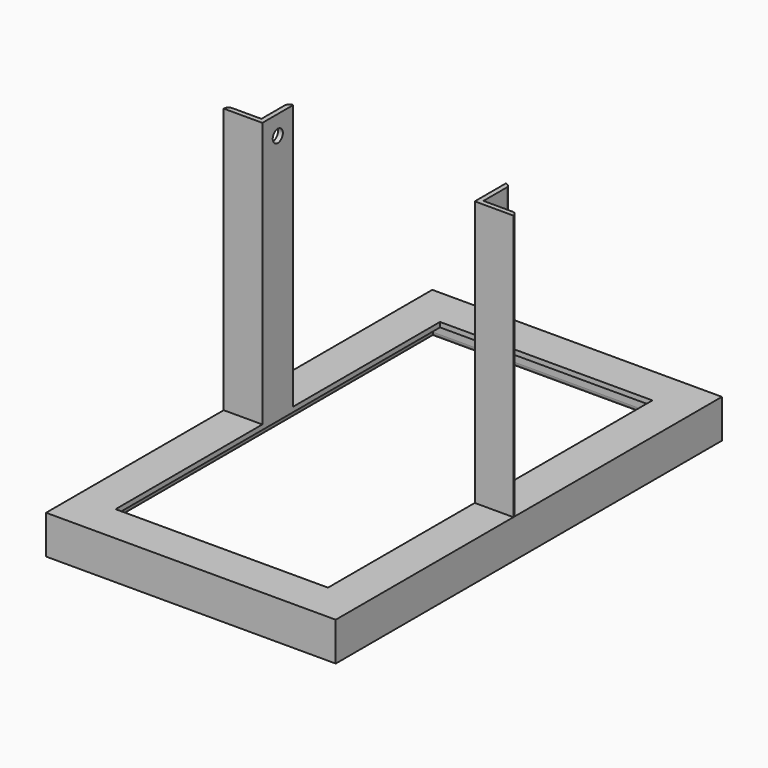
from build123d import *

# Parameters (mm, degrees)
PAD_DEPTH       = 400
PAD001_DEPTH    = 240
SKETCH002_W     = 176
SKETCH002_H     = 336
POCKET_DEPTH    = 32.001
PAD002_DEPTH    = 220
SKETCH004_R     = 5.25
POCKET001_DEPTH = 212.001


with BuildPart() as part:
    # Sketch → Pad (new body)
    with BuildSketch(Plane.XZ):
        with BuildLine():
            Line((-120, 0), (-120, 32))
            Line((-120, 32), (120, 32))
            Line((120, 32), (120, 0))
            ThreePointArc((116, 4), (117.171573, 1.171573), (120, 0))
            Line((116, 28), (116, 4))
            Line((-116, 28), (116, 28))
            Line((-116, 4), (-116, 28))
            ThreePointArc((-120, 0), (-117.171573, 1.171573), (-116, 4))
        make_face()
    extrude(amount=PAD_DEPTH)

    # Sketch001 (on Face4 of Pad) → Pad001 (join)
    with BuildSketch(Plane(origin=(120, 0, 0), x_dir=(0, 0, 1), z_dir=(1, 0, 0))):
        with BuildLine():
            Line((32, 400), (0, 400))
            ThreePointArc((0, 400), (1.171573, 397.171573), (4, 396))
            Line((4, 396), (32, 396))
            Line((32, 396), (32, 400))
        make_face()
        with BuildLine():
            Line((0, 0), (32, 0))
            Line((32, 0), (32, 4))
            Line((4, 4), (32, 4))
            ThreePointArc((4, 4), (1.171573, 2.828427), (0, 0))
        make_face()
    extrude(amount=-PAD001_DEPTH)

    # Sketch002 (on Face13 of Pad001) → Pocket (cut, through all)
    with BuildSketch(Plane(origin=(0, 0, 32), x_dir=(-1, 0, 0), z_dir=(0, 0, 1))):
        with Locations((0, 200)):
            Rectangle(SKETCH002_W, SKETCH002_H)
    extrude(amount=-POCKET_DEPTH, mode=Mode.SUBTRACT)

    # Sketch003 (on Face13 of Pocket) → Pad002 (join)
    with BuildSketch(Plane(origin=(0, 0, 32), x_dir=(-1, 0, 0), z_dir=(0, 0, 1))):
        with BuildLine():
            Line((88, 216), (88, 184))
            ThreePointArc((88, 184), (90.828427, 185.171573), (92, 188))
            Line((92, 212), (92, 188))
            Line((116, 212), (92, 212))
            ThreePointArc((116, 212), (118.828427, 213.171573), (120, 216))
            Line((88, 216), (120, 216))
        make_face()
        with BuildLine():
            Line((-88, 216), (-120, 216))
            ThreePointArc((-120, 216), (-118.828427, 213.171573), (-116, 212))
            Line((-116, 212), (-92, 212))
            Line((-92, 212), (-92, 188))
            ThreePointArc((-92, 188), (-90.828427, 185.171573), (-88, 184))
            Line((-88, 216), (-88, 184))
        make_face()
    extrude(amount=PAD002_DEPTH)

    # Sketch004 (on Face27 of Pad002) → Pocket001 (cut, through all)
    with BuildSketch(Plane(origin=(92, 0, 0), x_dir=(0, 0, 1), z_dir=(1, 0, 0))):
        with Locations((236, 200)):
            Circle(SKETCH004_R)
    extrude(amount=-POCKET001_DEPTH, mode=Mode.SUBTRACT)


solid = part.part
